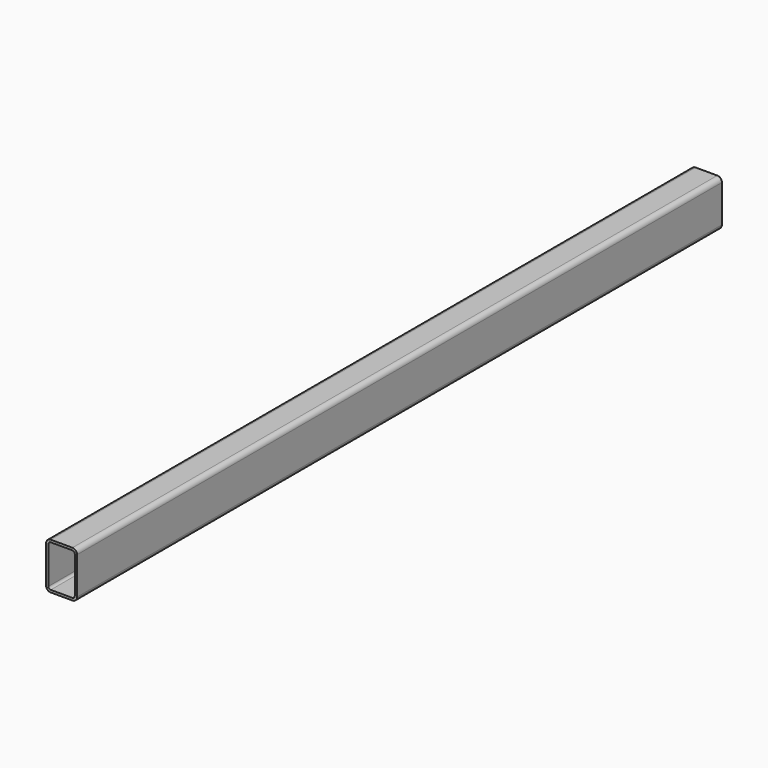
from build123d import *

# Parameters (mm, degrees)
F1_DEPTH = 1040


with BuildPart() as f1:
    # F0 (on Front) → F1 (new body)
    with BuildSketch(Plane.XZ):
        with BuildLine():
            Line((14, 30), (-14, 30))
            ThreePointArc((-14, 30), (-18.242641, 28.242641), (-20, 24))
            Line((-20, 24), (-20, -24))
            ThreePointArc((-20, -24), (-18.242641, -28.242641), (-14, -30))
            Line((-14, -30), (14, -30))
            ThreePointArc((14, -30), (18.242641, -28.242641), (20, -24))
            Line((20, -24), (20, 24))
            ThreePointArc((20, 24), (18.242641, 28.242641), (14, 30))
        make_face()
        with BuildLine():
            Line((-17, -24), (-17, 24))
            ThreePointArc((-17, 24), (-16.12132, 26.12132), (-14, 27))
            Line((-14, 27), (14, 27))
            ThreePointArc((14, 27), (16.12132, 26.12132), (17, 24))
            Line((17, 24), (17, -24))
            ThreePointArc((17, -24), (16.12132, -26.12132), (14, -27))
            Line((14, -27), (-14, -27))
            ThreePointArc((-14, -27), (-16.12132, -26.12132), (-17, -24))
        make_face(mode=Mode.SUBTRACT)
    extrude(amount=F1_DEPTH)


solid = f1.part
